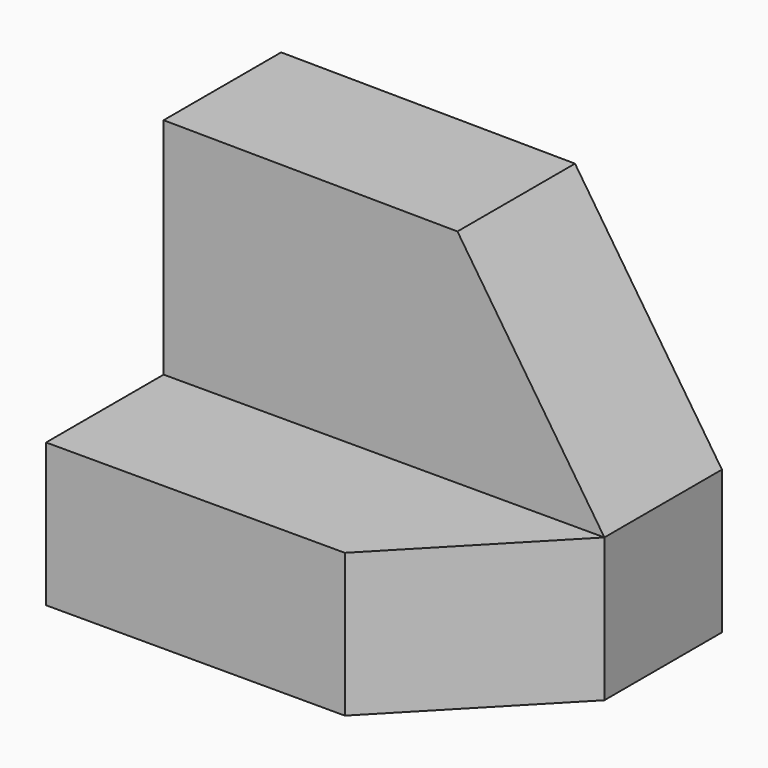
from build123d import *

# Parameters (mm, degrees)
F1_DEPTH = 25.4
F2_W     = 12.7
F2_H     = 19.05
F3_DEPTH = 38.099740899
F4_W     = 38.1
F4_H     = 12.7
F5_DEPTH = 2.54
F7_DEPTH = 12.701
F9_DEPTH = 12.3912550856


with BuildPart() as f1:
    # F0 (on Front) → F1 (new body)
    with BuildSketch(Plane.XZ):
        Polygon((-31.4954862574, 31.774422986), (-31.4954862574, 0.024422986), (6.6032546415, 0.024422986), (6.6032546415, 31.4646780716), align=None)
    extrude(amount=F1_DEPTH)

    # F2 (on face) → F3 (cut, through all)
    with BuildSketch(Plane.YZ.offset(6.6032546415)):
        with Locations((-19.05, 21.9396780716)):
            Rectangle(F2_W, F2_H)
    extrude(amount=-F3_DEPTH, mode=Mode.SUBTRACT)

    # F4 (on face) → F5 (cut)
    with BuildSketch(Plane(origin=(0.2562291336, 0, 31.5162797473), x_dir=(0.9999669527, 0, -0.0081297878), z_dir=(0.0081297878, 0, 0.9999669527))):
        with Locations((-12.7027647333, -19.05)):
            Rectangle(F4_W, F4_H)
    extrude(amount=-F5_DEPTH, mode=Mode.SUBTRACT)

    # F6 (on face) → F7 (cut, through all)
    with BuildSketch(Plane.XZ.offset(12.7)):
        Polygon((-6.0963256581, 31.5679263764), (6.6032546415, 12.4146780716), (6.6032546415, 31.4646780716), align=None)
    extrude(amount=-F7_DEPTH, mode=Mode.SUBTRACT)

    # F8 (on face) → F9 (cut, through all)
    with BuildSketch(Plane.XY.offset(12.4146780716)):
        Polygon((6.6032546415, -25.4), (6.6032546415, -12.7), (-5.669398699, -25.4), align=None)
    extrude(amount=-F9_DEPTH, mode=Mode.SUBTRACT)


solid = f1.part
